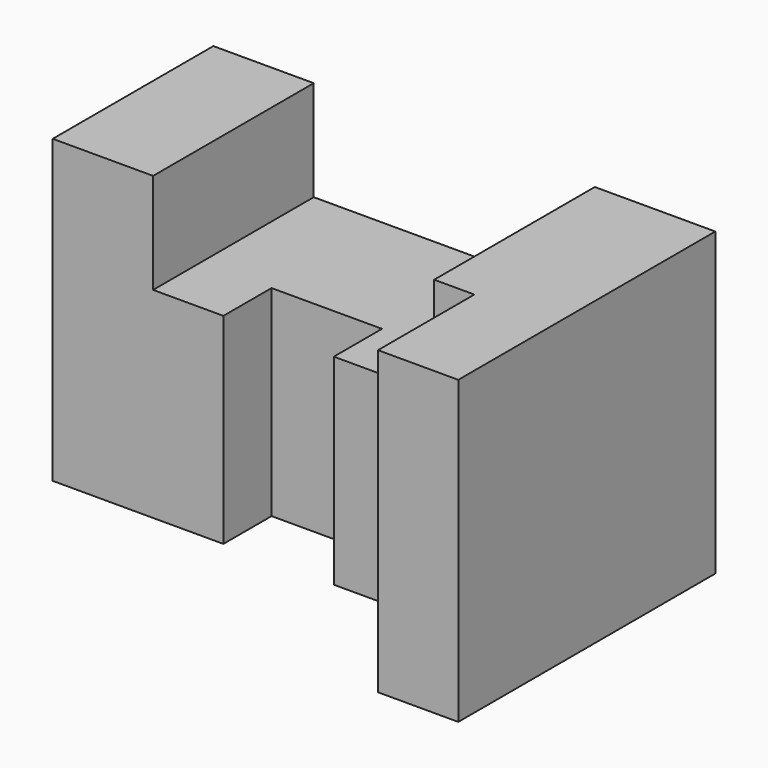
from build123d import *

# Parameters (mm, degrees)
F0_W     = 17.5
F0_H     = 50
F1_DEPTH = 50
F2_W     = 35
F2_H     = 50
F3_DEPTH = 27.5
F4_W     = 50
F4_H     = 50
F5_DEPTH = 25
F6_W     = 50
F6_H     = 75
F7_DEPTH = 30
F8_W     = 20
F8_H     = 75
F9_DEPTH = 30


with BuildPart() as f1:
    # F0 (on Front) → F1 (new body)
    with BuildSketch(Plane.XZ):
        Polygon((0, 75), (0, 0), (25, 0), (25, 50), (25, 75), align=None)
        with Locations((33.75, 25)):
            Rectangle(F0_W, F0_H)
    extrude(amount=F1_DEPTH)

    # F2 (on face) → F3 (join)
    with BuildSketch(Plane.YZ.offset(42.5)):
        with Locations((-17.5, 25)):
            Rectangle(F2_W, F2_H)
    extrude(amount=F3_DEPTH)

    # F4 (on face) → F5 (join)
    with BuildSketch(Plane.YZ.offset(70)):
        with Locations((-25, 25)):
            Rectangle(F4_W, F4_H)
    extrude(amount=F5_DEPTH)

    # F6 (on face) → F7 (join)
    with BuildSketch(Plane.YZ.offset(95)):
        with Locations((-25, 37.5)):
            Rectangle(F6_W, F6_H)
    extrude(amount=F7_DEPTH)

    # F8 (on face) → F9 (join)
    with BuildSketch(Plane.XZ.offset(50)):
        with Locations((115, 37.5)):
            Rectangle(F8_W, F8_H)
    extrude(amount=F9_DEPTH)


solid = f1.part
